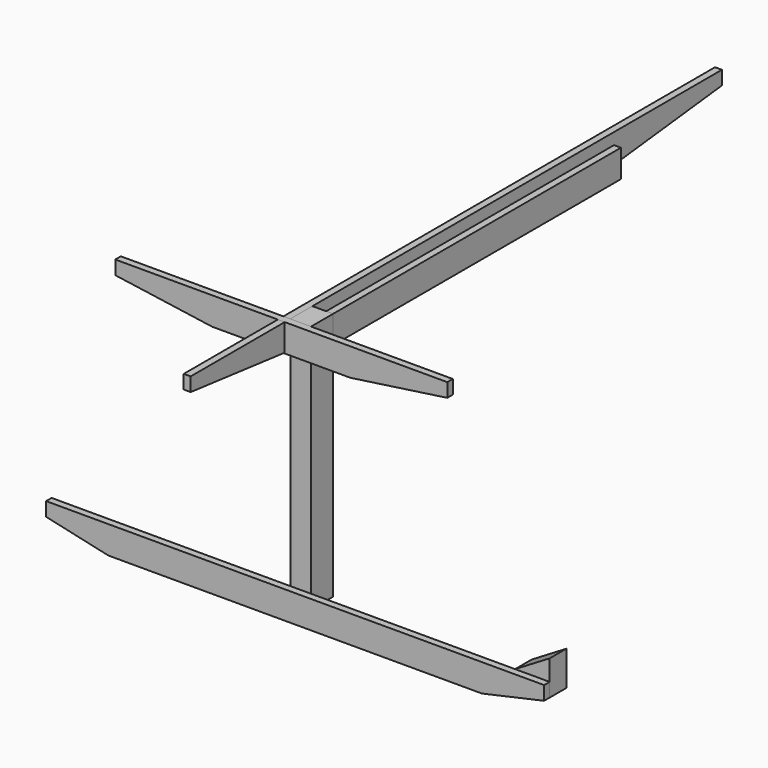
from build123d import *

# Parameters (mm, degrees)
F1_DEPTH  = 12.7
F2_W      = 101.6
F2_H      = 914.4
F3_DEPTH  = 76.2
F6_DEPTH  = 25.4
F9_DEPTH  = 25.4
F10_W     = 25.4
F10_H     = 101.6
F11_DEPTH = 1320.8
F13_DEPTH = 76.2


with BuildPart() as f1:
    # F0 (on Right) → F1 (new body, symmetric)
    with BuildSketch(Plane.YZ):
        Polygon((1219.2, 50.8), (-1219.2, 50.8), (-1219.2, 0), (-762, -50.8), (762, -50.8), (762.490941, -50.745451), (1219.2, 0), align=None)
    extrude(amount=F1_DEPTH, both=True)


with BuildPart() as f3:
    # F2 (on face) → F3 (new body)
    with BuildSketch(Plane.YZ.offset(12.7)):
        with Locations((-711.2, -406.4)):
            Rectangle(F2_W, F2_H)
    extrude(amount=F3_DEPTH)


with BuildPart() as f4_1:
    # F4: copy of F3
    add(f3.part.moved(Location((0, 1422.4, 0))))


with BuildPart() as f6:
    # F5 (on face) → F6 (new body)
    with BuildSketch(Plane.XZ.offset(762)):
        Polygon((609.6, 50.8), (-609.6, 50.8), (-609.6, 0), (-254, -50.8), (254, -50.8), (609.6, 0), align=None)
    extrude(amount=F6_DEPTH)


with BuildPart() as f9:
    # F8 (on face) → F9 (new body)
    with BuildSketch(Plane.XZ.offset(762)):
        Polygon((965.2, -812.8), (-863.6, -812.8), (-863.6, -863.6), (-635, -914.4), (736.6, -914.4), (965.2, -863.6), align=None)
    extrude(amount=F9_DEPTH)


with BuildPart() as f11:
    # F10 (on face) → F11 (new body)
    with BuildSketch(Plane(origin=(0, -660.4, 0), x_dir=(-1, 0, 0), z_dir=(0, 1, 0))):
        with Locations((-76.2, 0)):
            Rectangle(F10_W, F10_H)
    extrude(amount=F11_DEPTH)


with BuildPart() as f13:
    # F12 (on face) → F13 (new body)
    with BuildSketch(Plane(origin=(0, -762, 0), x_dir=(-1, 0, 0), z_dir=(0, 1, 0))):
        Polygon((-965.2, -736.6), (-965.2, -812.8), (-965.2, -863.6), (-838.2, -863.6), (-838.2, -812.8), align=None)
    extrude(amount=F13_DEPTH)


solid = Compound([f1.part, f3.part, f6.part, f9.part, f11.part, f13.part])
